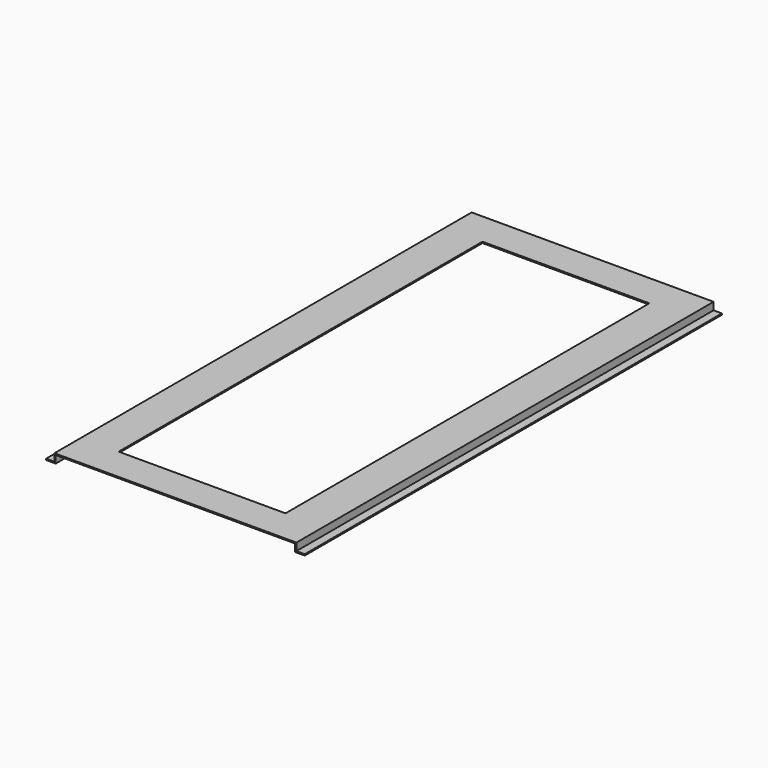
from build123d import *

# Parameters (mm, degrees)
F0_W     = 580
F0_H     = 1250
F0_W_2   = 400
F0_H_2   = 1090
F1_DEPTH = 3
F3_DEPTH = 1250


with BuildPart() as f1:
    # F0 (on Top) → F1 (new body)
    with BuildSketch(Plane.XY):
        Rectangle(F0_W, F0_H)
        Rectangle(F0_W_2, F0_H_2, mode=Mode.SUBTRACT)
    extrude(amount=F1_DEPTH)

    # F2 (on face) → F3 (join)
    with BuildSketch(Plane.XZ.offset(625)):
        Polygon((-287, 0), (-290, 0), (-290, -15), (-310, -15), (-310, -18), (-287, -18), align=None)
        Polygon((290, 0), (287, 0), (287, -18), (310, -18), (310, -15), (290, -15), align=None)
    extrude(amount=-F3_DEPTH)


solid = f1.part
